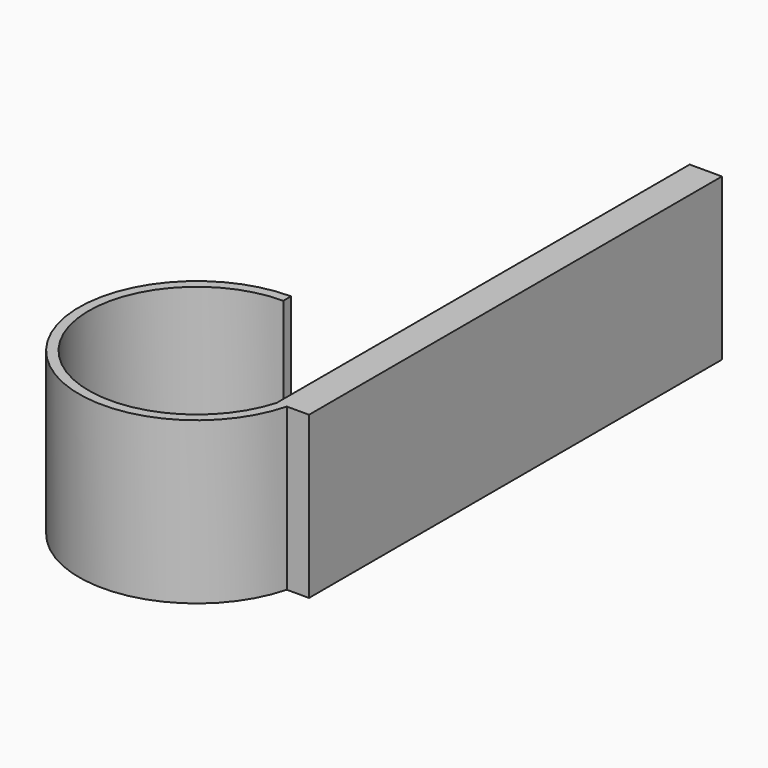
from build123d import *

# Parameters (mm, degrees)
F1_DEPTH = 25


with BuildPart() as f1:
    # F0 (on Top) → F1 (new body)
    with BuildSketch(Plane.XY):
        with BuildLine():
            ThreePointArc((16.096301, -4.633744), (-13.382408, -10.073413), (0, 16.75))
            Line((0, 16.75), (0, 18.25))
            ThreePointArc((0, 18.25), (-14.450403, -11.146674), (17.651938, -4.633744))
            Line((17.651938, -4.633744), (16.096301, -4.633744))
        make_face()
        Polygon((16.096301, 75.366256), (16.096301, -4.633744), (17.651938, -4.633744), (21.096301, -4.633744), (21.096301, 75.366256), align=None)
    extrude(amount=F1_DEPTH)


solid = f1.part
